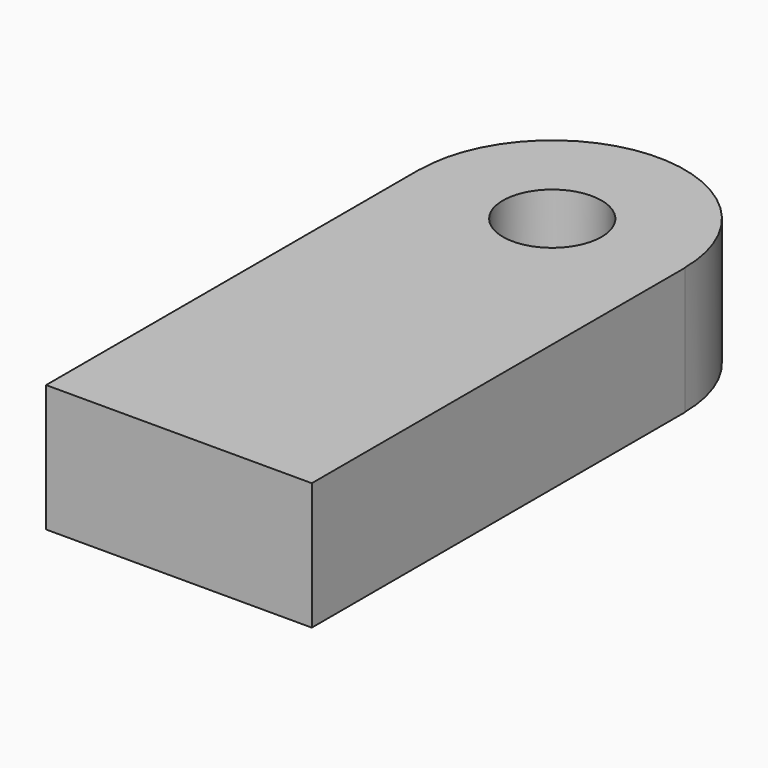
from build123d import *

# Parameters (mm, degrees)
F0_R     = 9.852407
F1_DEPTH = 25.4


with BuildPart() as f1:
    # F0 (on Top) → F1 (new body)
    with BuildSketch(Plane.XY):
        with BuildLine():
            Line((-26.475353, 46.601079), (-26.538545, 46.601079))
            Line((-26.538545, 46.601079), (-26.538545, -46.601079))
            Line((-26.538545, -46.601079), (26.538545, -46.601079))
            Line((26.538545, -46.601079), (26.538545, 46.601079))
            Line((26.538545, 46.601079), (26.475353, 46.601079))
            ThreePointArc((26.475353, 46.601079), (0, 73.076433), (-26.475353, 46.601079))
        make_face()
        with Locations((0, 46.601079)):
            Circle(F0_R, mode=Mode.SUBTRACT)
    extrude(amount=F1_DEPTH)


solid = f1.part
